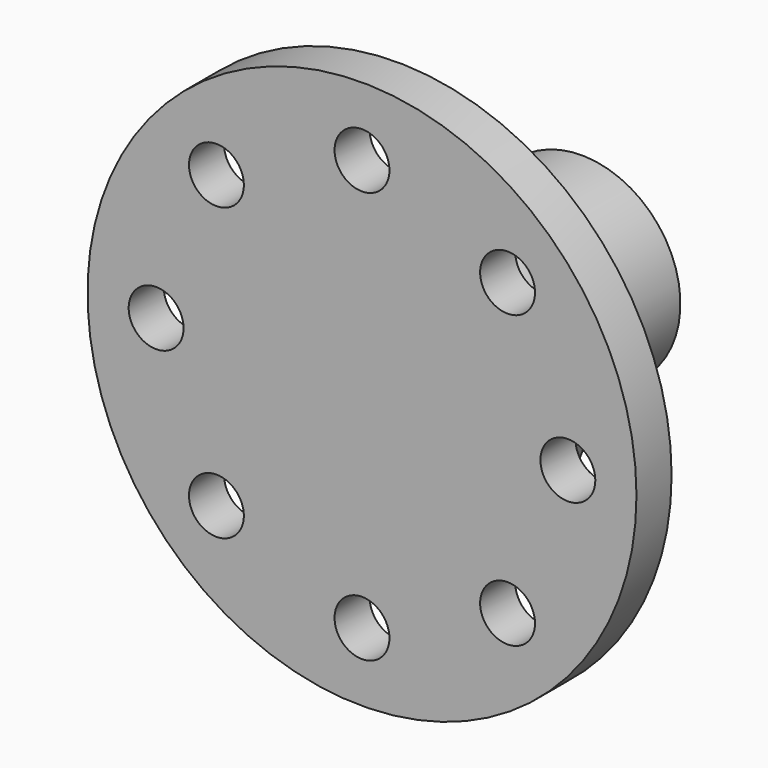
from build123d import *

# Parameters (mm, degrees)
F0_R     = 50
F0_R_2   = 5
F1_DEPTH = 8
F2_R     = 27
F3_DEPTH = 10
F4_R     = 18
F5_DEPTH = 32


with BuildPart() as f1:
    # F0 (on Front) → F1 (new body)
    with BuildSketch(Plane.XZ):
        Circle(F0_R)
        with Locations((-26.516504, -26.516504)):
            Circle(F0_R_2, mode=Mode.SUBTRACT)
        with Locations((0, -37.5)):
            Circle(F0_R_2, mode=Mode.SUBTRACT)
        with Locations((26.516504, -26.516504)):
            Circle(F0_R_2, mode=Mode.SUBTRACT)
        with Locations((-37.5, 0)):
            Circle(F0_R_2, mode=Mode.SUBTRACT)
        with Locations((-26.516504, 26.516504)):
            Circle(F0_R_2, mode=Mode.SUBTRACT)
        with Locations((37.5, 0)):
            Circle(F0_R_2, mode=Mode.SUBTRACT)
        with Locations((0, 37.5)):
            Circle(F0_R_2, mode=Mode.SUBTRACT)
        with Locations((26.516504, 26.516504)):
            Circle(F0_R_2, mode=Mode.SUBTRACT)
    extrude(amount=F1_DEPTH)

    # F2 (on face) → F3 (join)
    with BuildSketch(Plane(origin=(0, 0, 0), x_dir=(-1, 0, 0), z_dir=(0, 1, 0))):
        Circle(F2_R)
    extrude(amount=F3_DEPTH)

    # F4 (on face) → F5 (join)
    with BuildSketch(Plane(origin=(0, 10, 0), x_dir=(-1, 0, 0), z_dir=(0, 1, 0))):
        Circle(F4_R)
    extrude(amount=F5_DEPTH)


solid = f1.part
